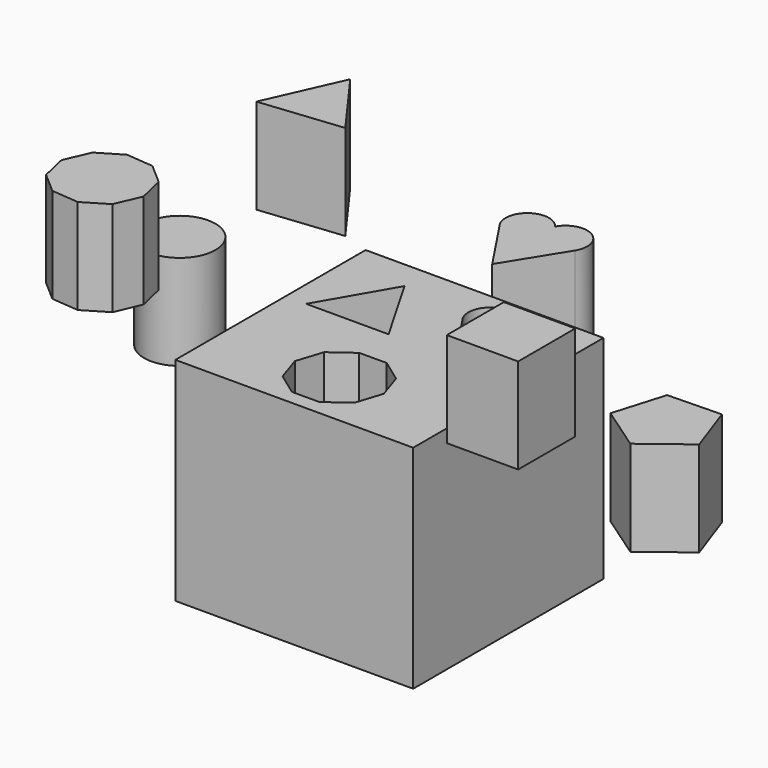
from build123d import *

# Parameters (mm, degrees)
F0_W      = 127
F0_H      = 113.3191107269
F1_DEPTH  = 127
F2_R      = 19.05
F3_DEPTH  = 50.8
F4_W      = 38.1
F4_H      = 38.1
F5_DEPTH  = 50.8
F7_DEPTH  = 50.8
F9_DEPTH  = 50.8
F11_DEPTH = 50.8
F13_DEPTH = 50.8
F16_R     = 19.05
F17_DEPTH = 50.8
F14_W     = 38.1
F14_H     = 38.1
F18_DEPTH = 50.8
F20_DEPTH = 50.8
F22_DEPTH = 50.8
F24_DEPTH = 50.8


with BuildPart() as f1:
    # F0 (on Front) → F1 (new body)
    with BuildSketch(Plane.XZ):
        with Locations((0.1909546554, -0.2864338458)):
            Rectangle(F0_W, F0_H)
    extrude(amount=F1_DEPTH)

    # F2 (on face) → F3 (cut)
    with BuildSketch(Plane(origin=(0, 0, -56.9459892092), x_dir=(1, 0, 0), z_dir=(0, 0, -1))):
        with Locations((-34.8810516298, 99.9996215105)):
            Circle(F2_R)
    extrude(amount=-F3_DEPTH, mode=Mode.SUBTRACT)

    # F4 (on face) → F5 (cut)
    with BuildSketch(Plane(origin=(0, 0, -56.9459892092), x_dir=(1, 0, 0), z_dir=(0, 0, -1))):
        with Locations((26.0971351527, 96.8234584603)):
            Rectangle(F4_W, F4_H)
    extrude(amount=-F5_DEPTH, mode=Mode.SUBTRACT)

    # F6 (on face) → F7 (cut)
    with BuildSketch(Plane(origin=(0, 0, -56.9459892092), x_dir=(1, 0, 0), z_dir=(0, 0, -1))):
        Polygon((-56.6030346625, 41.0454806673), (-47.6822181135, 13.7336526435), (-18.9504421823, 13.7780343462), (-10.1140446485, 41.1172917707), (-33.3846265658, 57.9695003836), align=None)
    extrude(amount=-F7_DEPTH, mode=Mode.SUBTRACT)

    # F8 (on face) → F9 (cut)
    with BuildSketch(Plane.XY.offset(56.3731215177)):
        Polygon((-8.294206511, -53.4337777186), (-30.31764359, -15.2880657404), (-52.3410806691, -53.4337777186), align=None)
    extrude(amount=-F9_DEPTH, mode=Mode.SUBTRACT)

    # F10 (on face) → F11 (cut)
    with BuildSketch(Plane.XY.offset(56.3731215177)):
        with BuildLine():
            ThreePointArc((26.2838121714, -10.3574311609), (10.6741557305, -7.3051652924), (6.738505182, -22.7158225105))
            Line((6.738505182, -22.7158225105), (26.9882585853, -53.1520769))
            Line((26.9882585853, -53.1520769), (46.2515082198, -22.0820703393))
            ThreePointArc((46.2515082198, -22.0820703393), (42.2727045666, -5.9928346862), (26.2838121714, -10.3574311609))
        make_face()
    extrude(amount=-F11_DEPTH, mode=Mode.SUBTRACT)

    # F12 (on face) → F13 (cut)
    with BuildSketch(Plane.XY.offset(56.3731215177)):
        Polygon((19.1253523779, -82.7064397891), (7.2535540552, -74.1354135239), (-7.3888553774, -74.1793755884), (-19.2089731938, -82.8215339682), (-23.6919161391, -96.7608778984), (-19.1253523779, -110.6730517785), (-7.2535540552, -119.2440780437), (7.3888553774, -119.2001159792), (19.2089731938, -110.5579575994), (23.6919161391, -96.6186136692), align=None)
    extrude(amount=-F13_DEPTH, mode=Mode.SUBTRACT)


with BuildPart() as f17:
    # F16 (on Top) → F17 (new body)
    with BuildSketch(Plane.XY):
        with Locations((-137.9592269659, -30.7426471263)):
            Circle(F16_R)
    extrude(amount=F17_DEPTH)


with BuildPart() as f18:
    # F14 (on face) → F18 (new body)
    with BuildSketch(Plane.XY.offset(56.3731215177)):
        with Locations((91.1035591245, -95.9713852525)):
            Rectangle(F14_W, F14_H)
    extrude(amount=F18_DEPTH)


with BuildPart() as f18b:
    # F15 (on Top) → F18, piece 2 (new body)
    with BuildSketch(Plane.XY):
        Polygon((148.2630850383, -41.8104374076), (138.7180920668, -14.7104369081), (109.9948949607, -15.4139039698), (101.7879758552, -42.9486710234), (125.4390180111, -59.2626258731), align=None)
    extrude(amount=F18_DEPTH)


with BuildPart() as f20:
    # F19 (on face) → F20 (new body)
    with BuildSketch(Plane.XY.offset(56.3731215177)):
        Polygon((-133.7956904605, -71.1238104015), (-146.3593086234, -78.6442881331), (-152.1030633272, -92.1131918953), (-148.8330354981, -106.3858582423), (-137.7982646227, -116.0106137395), (-123.2136581172, -117.3111289204), (-110.6500399543, -109.7906511888), (-104.9062852505, -96.3217474266), (-108.1763130796, -82.0490810796), (-119.2110839551, -72.4243255824), align=None)
    extrude(amount=F20_DEPTH)


with BuildPart() as f22:
    # F21 (on face) → F22 (new body)
    with BuildSketch(Plane.XY.offset(56.3731215177)):
        Polygon((-77.8342249913, 4.5892671622), (-103.7122182798, 40.2327320114), (-121.6413676739, 0), align=None)
    extrude(amount=F22_DEPTH)


with BuildPart() as f24:
    # F23 (on face) → F24 (new body)
    with BuildSketch(Plane.XY.offset(5.5731215177)):
        with BuildLine():
            ThreePointArc((-14.8761437524, 65.8769807034), (-30.4858001933, 68.929246572), (-34.4214507418, 53.5185893539))
            Line((-34.4214507418, 53.5185893539), (-14.1716973384, 23.0823349643))
            Line((-14.1716973384, 23.0823349643), (5.091552296, 54.152341525))
            ThreePointArc((5.091552296, 54.152341525), (1.1127486428, 70.2415771782), (-14.8761437524, 65.8769807034))
        make_face()
    extrude(amount=F24_DEPTH)


solid = Compound([f1.part, f17.part, f18.part, f18b.part, f20.part, f22.part, f24.part])
